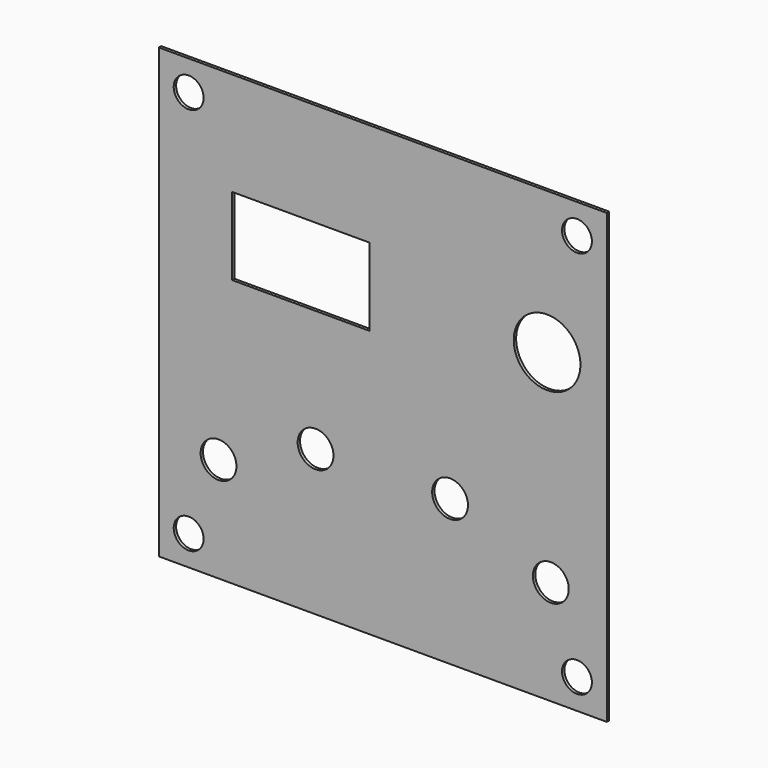
from build123d import *

# Parameters (mm, degrees)
F0_R     = 5
F0_R_2   = 6
F0_W     = 46
F0_H     = 26
F0_R_3   = 11.167495
F1_DEPTH = 1


with BuildPart() as f1:
    # F0 (on Front) → F1 (new body)
    with BuildSketch(Plane.XZ):
        Polygon((75, -75), (75, 75), (-75, 75), (-75, 15), (-75, 0), (-75, -75), align=None)
        with Locations((-65, -65)):
            Circle(F0_R, mode=Mode.SUBTRACT)
        with Locations((-55, -40)):
            Circle(F0_R_2, mode=Mode.SUBTRACT)
        with Locations((-22.511177, -26.278466)):
            Circle(F0_R_2, mode=Mode.SUBTRACT)
        with Locations((65, -65)):
            Circle(F0_R, mode=Mode.SUBTRACT)
        with Locations((56.25, -40)):
            Circle(F0_R_2, mode=Mode.SUBTRACT)
        with Locations((22.511177, -26.278466)):
            Circle(F0_R_2, mode=Mode.SUBTRACT)
        with Locations((-27.41893, 27.41893)):
            Rectangle(F0_W, F0_H, mode=Mode.SUBTRACT)
        with Locations((-65, 65)):
            Circle(F0_R, mode=Mode.SUBTRACT)
        with Locations((55, 27.41893)):
            Circle(F0_R_3, mode=Mode.SUBTRACT)
        with Locations((65, 65)):
            Circle(F0_R, mode=Mode.SUBTRACT)
    extrude(amount=F1_DEPTH)


solid = f1.part
